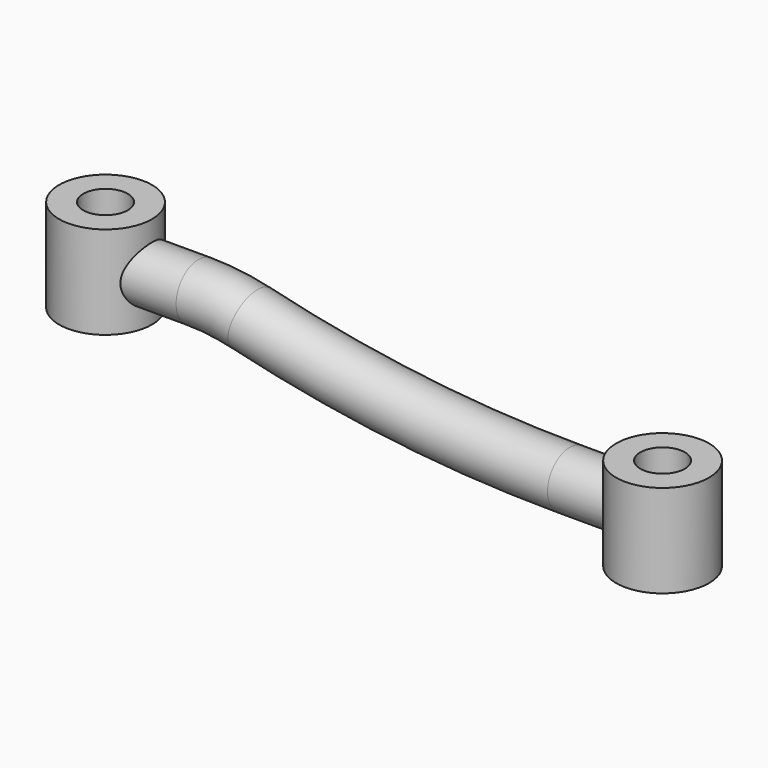
from build123d import *

# Parameters (mm, degrees)
F0_R     = 12.5
F1_DEPTH = 25
F2_DEPTH = 12.5
F4_R     = 7.5
F6_R     = 6
F7_DEPTH = 37.5010001


with BuildPart() as f1:
    # F0 (on Top) → F1 (new body)
    with BuildSketch(Plane.XY):
        Circle(F0_R)
    extrude(amount=F1_DEPTH)



with BuildPart() as f2:
    # F0 (on Top) → F2 (new body, symmetric)
    with BuildSketch(Plane.XY):
        with Locations((150, 0)):
            Circle(F0_R)
    extrude(amount=F2_DEPTH, both=True)


with BuildPart() as f1_1:
    add(f1.part)

    add(f2.part)  # F5 merges F2
    # F5: sweep along a path in F3
    with BuildLine(Plane.XZ) as f5_path:
        Line((0, 12), (25, 12))
        ThreePointArc((25, 12), (32.1487132371, 11.5726103092), (39.1955835962, 10.2965299685))
        ThreePointArc((39.1955835962, 10.2965299685), (81.789999989, 2.5833332421), (125, 0))
        Line((125, 0), (150, 0))
    # F4 (on Right) → F5 (sweep)
    with BuildSketch(Plane.YZ):
        with Locations((0, 12)):
            Circle(F4_R)
    sweep(path=f5_path.line)

    # F6 (on face) → F7 (cut, through all)
    with BuildSketch(Plane.XY.offset(25)):
        Circle(F6_R)
        with Locations((150, 0)):
            Circle(F6_R)
    extrude(amount=-F7_DEPTH, mode=Mode.SUBTRACT)


solid = f1_1.part
